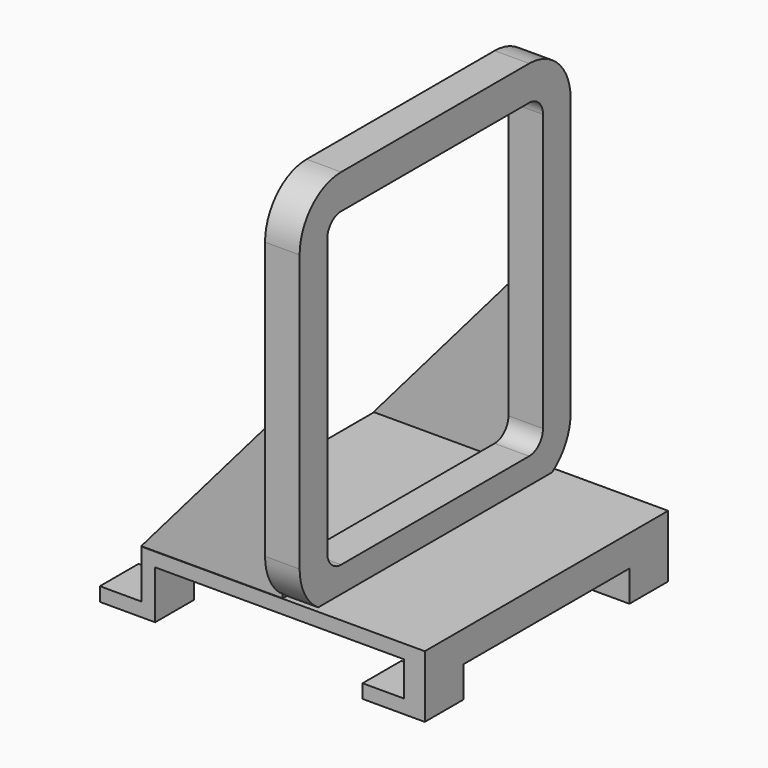
from build123d import *

# Parameters (mm, degrees)
F1_DEPTH = 22
F2_W     = 2
F2_H     = 2.5
F2_W_2   = 3
F4_DEPTH = 15
F6_W     = 5
F6_H     = 5
F9_DEPTH = 2


with BuildPart() as f1:
    # F0 (on Front) → F1 (new body)
    with BuildSketch(Plane.XZ):
        Polygon((-22.3971781656, 0), (-28.3971781656, 0), (-28.3971781656, -2), (-20.3971781656, -2), (-20.3971781656, 5), (13.6028218344, 5), (15.6028218344, 5), (15.6028218344, 0), (9.6028218344, 0), (9.6028218344, -2), (18.6028218344, -2), (18.6028218344, 7), (-22.3971781656, 7), align=None)
    extrude(amount=F1_DEPTH)

    # F2 (on face) → F4 (cut)
    with BuildSketch(Plane.XZ.offset(22)):
        Polygon((-20.3971781656, 0), (-22.3971781656, 0), (-28.3971781656, 0), (-28.3971781656, -2), (-20.3971781656, -2), align=None)
        Polygon((18.6028218344, -2), (18.6028218344, 0), (15.6028218344, 0), (9.6028218344, 0), (9.6028218344, -2), align=None)
        with Locations((-21.3971781656, 1.25)):
            Rectangle(F2_W, F2_H)
        with Locations((17.1028218344, 1.25)):
            Rectangle(F2_W_2, F2_H)
    extrude(amount=-F4_DEPTH, mode=Mode.SUBTRACT)

    # F7: sweep along a path in F3
    with BuildLine(Plane.YZ) as f7_path:
        Line((-22.250123322, 8.247365728), (-5, 8.247365728))
        ThreePointArc((-5, 8.247365728), (-1.4644660941, 9.7118318221), (0, 13.247365728))
        Line((0, 13.247365728), (0, 53.247365728))
        ThreePointArc((0, 53.247365728), (-1.4644660941, 56.782899634), (-5, 58.247365728))
        Line((-5, 58.247365728), (-22.250123322, 58.247365728))
    # F6 (on offset) → F7 (sweep)
    with BuildSketch(Plane.XZ.offset(22)):
        with Locations((0, 8.247365728)):
            Rectangle(F6_W, F6_H)
    sweep(path=f7_path.line)

    # F8 (on Front) → F9 (join)
    with BuildSketch(Plane.XZ):
        Polygon((-1.9540686626, 30.8402627707), (-22.409658879, 7.0511708036), (-1.9540686626, 7.0511708036), align=None)
    extrude(amount=F9_DEPTH)

    # F10: F1 across plane


with BuildPart() as f1_1:
    add(f1.part)
    add(f1.part.mirror(Plane.XZ.offset(22)))


solid = f1_1.part
